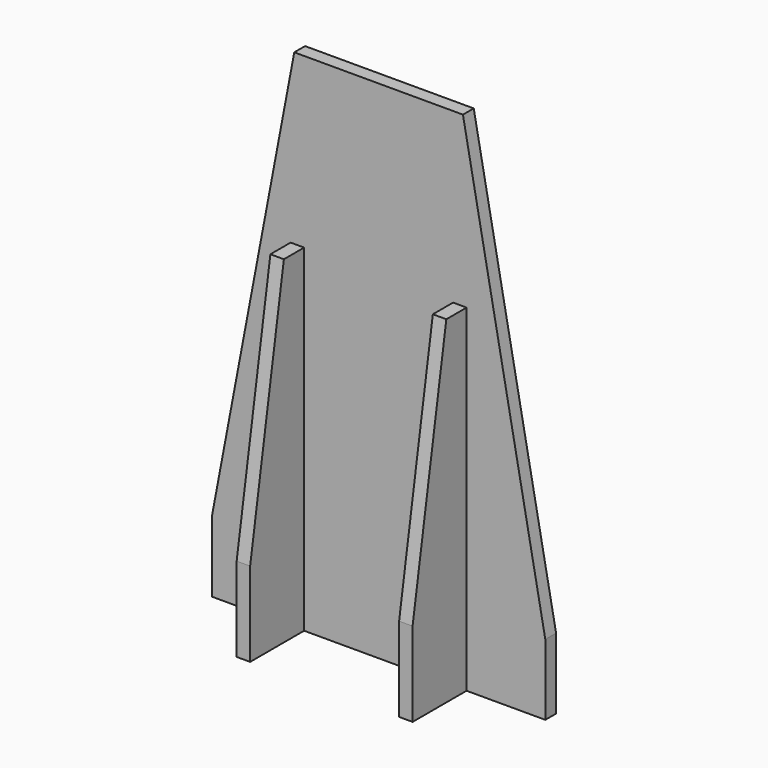
from build123d import *

# Parameters (mm, degrees)
F1_DEPTH = 8
F2_W     = 8
F2_H     = 200
F3_DEPTH = 40
F5_DEPTH = 150


with BuildPart() as f1:
    # F0 (on Front) → F1 (new body)
    with BuildSketch(Plane.XZ):
        Polygon((0, 42), (0, 0), (98.825, 0), (98.825, 300), (48.825, 300), align=None)
        Polygon((98.825, 300), (98.825, 0), (197.65, 0), (197.65, 42), (148.825, 300), align=None)
    extrude(amount=F1_DEPTH)

    # F2 (on face) → F3 (join)
    with BuildSketch(Plane.XZ.offset(8)):
        with Locations((50.67, 100)):
            Rectangle(F2_W, F2_H)
        with Locations((146.98, 100)):
            Rectangle(F2_W, F2_H)
    extrude(amount=F3_DEPTH)

    # F4 (on face) → F5 (cut)
    with BuildSketch(Plane(origin=(46.67, 0, 0), x_dir=(0, -1, 0), z_dir=(-1, 0, 0))):
        Polygon((23, 200), (48, 50), (48, 200), align=None)
    extrude(amount=-F5_DEPTH, mode=Mode.SUBTRACT)


solid = f1.part
